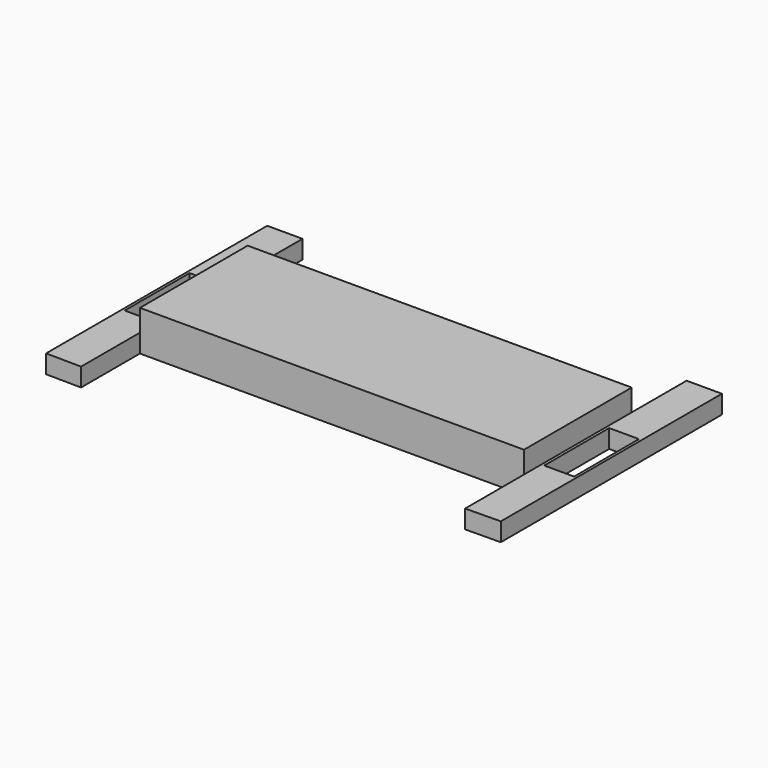
from build123d import *

# Parameters (mm, degrees)
F1_DEPTH = 4.064
F2_W     = 84.829882
F2_H     = 29.745544
F3_DEPTH = 4.826
F4_W     = 6.593369
F4_H     = 17.919544
F5_DEPTH = 27.94


with BuildPart() as f1:
    # F0 (on Top) → F1 (new body)
    with BuildSketch(Plane.XY):
        Polygon((42.414941, 15.974458), (0, 15.974458), (-42.414941, 15.974458), (-42.414941, -13.771086), (0, -13.771086), (42.414941, -13.771086), align=None)
        Polygon((-42.414941, -13.771086), (-42.414941, 15.974458), (-42.414941, 31.122651), (-50.217658, 31.122651), (-50.217658, -29.922441), (-42.414941, -30.020962), align=None)
        Polygon((42.414941, 31.122651), (42.414941, 15.974458), (42.414941, -13.771086), (42.414941, -30.020962), (50.217658, -29.922441), (50.217658, 31.122651), align=None)
    extrude(amount=F1_DEPTH)

    # F2 (on face) → F3 (join)
    with BuildSketch(Plane.XY.offset(4.064)):
        with Locations((0, 1.101686)):
            Rectangle(F2_W, F2_H)
    extrude(amount=F3_DEPTH)

    # F4 (on Top) → F5 (cut)
    with BuildSketch(Plane.XY):
        with Locations((46.333633, 0)):
            Rectangle(F4_W, F4_H)
        with Locations((-46.333633, 0)):
            Rectangle(F4_W, F4_H)
    extrude(amount=F5_DEPTH, mode=Mode.SUBTRACT)


solid = f1.part
